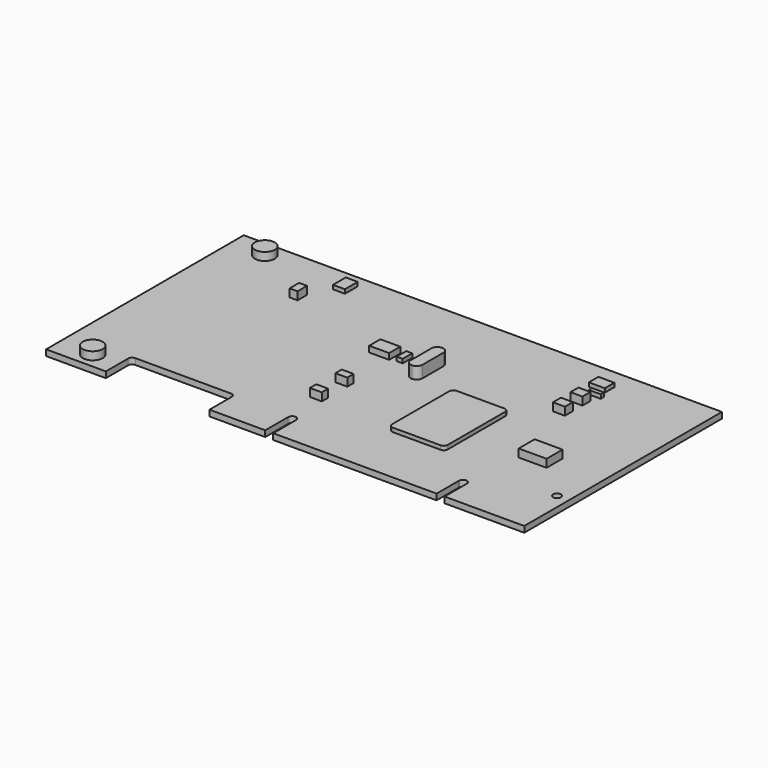
from build123d import *

# Parameters (mm, degrees)
F0_W      = 120
F0_H      = 62
F1_DEPTH  = 1.5
F3_DEPTH  = 1.501
F5_DEPTH  = 1.501
F7_DEPTH  = 1.501
F8_R      = 1
F9_DEPTH  = 1.501
F10_W     = 7
F10_H     = 5
F11_DEPTH = 2
F13_DEPTH = 1
F14_W     = 3
F14_H     = 2.5
F15_DEPTH = 2
F16_W     = 3
F16_H     = 2.5
F17_DEPTH = 2
F18_W     = 3
F18_H     = 1
F19_DEPTH = 1
F20_W     = 4
F20_H     = 3
F21_DEPTH = 1
F23_DEPTH = 3
F24_W     = 1.5
F24_H     = 3
F25_DEPTH = 1
F26_W     = 5
F26_H     = 3.5
F27_DEPTH = 1.5
F28_W     = 3
F28_H     = 2
F29_DEPTH = 2
F30_W     = 3
F30_H     = 2
F31_DEPTH = 2
F32_R     = 2.5
F33_DEPTH = 2
F34_R     = 2.5
F35_DEPTH = 2
F36_W     = 3
F36_H     = 4
F37_DEPTH = 1
F38_W     = 2
F38_H     = 3
F39_DEPTH = 2


with BuildPart() as f1:
    # F0 (on Top) → F1 (new body)
    with BuildSketch(Plane.XY):
        with Locations((-1.138048, 13.651166)):
            Rectangle(F0_W, F0_H)
    extrude(amount=F1_DEPTH)

    # F2 (on face) → F3 (cut, through all)
    with BuildSketch(Plane.XY.offset(1.5)):
        with BuildLine():
            Line((-46.138048, -10.348834), (-46.138048, -17.348834))
            Line((-46.138048, -17.348834), (-20.138048, -17.348834))
            Line((-20.138048, -17.348834), (-20.138048, -10.348834))
            ThreePointArc((-20.138048, -10.348834), (-20.430941, -9.641727), (-21.138048, -9.348834))
            Line((-21.138048, -9.348834), (-45.138048, -9.348834))
            ThreePointArc((-45.138048, -9.348834), (-45.845155, -9.641727), (-46.138048, -10.348834))
        make_face()
    extrude(amount=-F3_DEPTH, mode=Mode.SUBTRACT)

    # F4 (on face) → F5 (cut, through all)
    with BuildSketch(Plane.XY.offset(1.5)):
        with BuildLine():
            Line((-6.138048, -10.157242), (-6.138048, -17.348834))
            Line((-6.138048, -17.348834), (-4.138048, -17.348834))
            Line((-4.138048, -17.348834), (-4.138048, -10.157242))
            ThreePointArc((-4.138048, -10.157242), (-5.138048, -9.157242), (-6.138048, -10.157242))
        make_face()
    extrude(amount=-F5_DEPTH, mode=Mode.SUBTRACT)

    # F6 (on face) → F7 (cut, through all)
    with BuildSketch(Plane.XY.offset(1.5)):
        with BuildLine():
            ThreePointArc((38.861952, -10.467094), (38.868969, -10.348834), (38.861952, -10.230573))
            Line((38.861952, -10.230573), (38.861952, -10.467094))
        make_face()
        with BuildLine():
            Line((36.875528, -10.463178), (36.875987, -10.230573))
            ThreePointArc((36.875987, -10.230573), (36.868971, -10.346862), (36.875528, -10.463178))
        make_face()
        with BuildLine():
            Line((38.861952, -10.467094), (38.861952, -10.230573))
            ThreePointArc((38.861952, -10.230573), (37.868969, -9.348834), (36.875987, -10.230573))
            Line((36.875987, -10.230573), (36.875528, -10.463178))
            Line((36.875528, -10.463178), (36.861952, -17.348834))
            Line((36.861952, -17.348834), (38.861952, -17.348834))
            Line((38.861952, -17.348834), (38.861952, -10.467094))
        make_face()
    extrude(amount=-F7_DEPTH, mode=Mode.SUBTRACT)

    # F8 (on face) → F9 (cut, through all)
    with BuildSketch(Plane.XY.offset(1.5)):
        with Locations((55.861952, -3.348834)):
            Circle(F8_R)
    extrude(amount=-F9_DEPTH, mode=Mode.SUBTRACT)

    # F10 (on face) → F11 (join)
    with BuildSketch(Plane.XY.offset(1.5)):
        with Locations((43.361952, 7.151166)):
            Rectangle(F10_W, F10_H)
    extrude(amount=F11_DEPTH)

    # F12 (on face) → F13 (join)
    with BuildSketch(Plane.XY.offset(1.5)):
        with BuildLine():
            Line((25.861952, 17.651166), (13.861952, 17.651166))
            ThreePointArc((13.861952, 17.651166), (13.154845, 17.358273), (12.861952, 16.651166))
            Line((12.861952, 16.651166), (12.861952, -1.348834))
            ThreePointArc((12.861952, -1.348834), (13.154845, -2.05594), (13.861952, -2.348834))
            Line((13.861952, -2.348834), (25.861952, -2.348834))
            ThreePointArc((25.861952, -2.348834), (26.569059, -2.05594), (26.861952, -1.348834))
            Line((26.861952, -1.348834), (26.861952, 16.651166))
            ThreePointArc((26.861952, 16.651166), (26.569059, 17.358273), (25.861952, 17.651166))
        make_face()
    extrude(amount=F13_DEPTH)

    # F14 (on face) → F15 (join)
    with BuildSketch(Plane.XY.offset(1.5)):
        with Locations((34.361952, 25.401166)):
            Rectangle(F14_W, F14_H)
    extrude(amount=F15_DEPTH)

    # F16 (on face) → F17 (join)
    with BuildSketch(Plane.XY.offset(1.5)):
        with Locations((34.361952, 30.901166)):
            Rectangle(F16_W, F16_H)
    extrude(amount=F17_DEPTH)

    # F18 (on face) → F19 (join)
    with BuildSketch(Plane.XY.offset(1.5)):
        with Locations((35.361952, 34.651166)):
            Rectangle(F18_W, F18_H)
    extrude(amount=F19_DEPTH)

    # F20 (on face) → F21 (join)
    with BuildSketch(Plane.XY.offset(1.5)):
        with Locations((33.861952, 38.151166)):
            Rectangle(F20_W, F20_H)
    extrude(amount=F21_DEPTH)

    # F22 (on face) → F23 (join)
    with BuildSketch(Plane.XY.offset(1.5)):
        with BuildLine():
            ThreePointArc((2.654845, 27.151166), (1.594185, 26.711826), (1.154845, 25.651166))
            Line((1.154845, 25.651166), (1.154845, 19.151166))
            ThreePointArc((1.154845, 19.151166), (1.594185, 18.090506), (2.654845, 17.651166))
            ThreePointArc((2.654845, 17.651166), (3.715505, 18.090506), (4.154845, 19.151166))
            Line((4.154845, 19.151166), (4.154845, 25.651166))
            ThreePointArc((4.154845, 25.651166), (3.715505, 26.711826), (2.654845, 27.151166))
        make_face()
    extrude(amount=F23_DEPTH)

    # F24 (on face) → F25 (join)
    with BuildSketch(Plane.XY.offset(1.5)):
        with Locations((-3.595155, 23.151166)):
            Rectangle(F24_W, F24_H)
    extrude(amount=F25_DEPTH)

    # F26 (on face) → F27 (join)
    with BuildSketch(Plane.XY.offset(1.5)):
        with Locations((-8.345155, 22.901166)):
            Rectangle(F26_W, F26_H)
    extrude(amount=F27_DEPTH)

    # F28 (on face) → F29 (join)
    with BuildSketch(Plane.XY.offset(1.5)):
        with Locations((-6.638048, 8.151166)):
            Rectangle(F28_W, F28_H)
    extrude(amount=F29_DEPTH)

    # F30 (on face) → F31 (join)
    with BuildSketch(Plane.XY.offset(1.5)):
        with Locations((-6.638048, 0.151166)):
            Rectangle(F30_W, F30_H)
    extrude(amount=F31_DEPTH)

    # F32 (on face) → F33 (join)
    with BuildSketch(Plane.XY.offset(1.5)):
        with Locations((-52.638048, 40.651166)):
            Circle(F32_R)
    extrude(amount=F33_DEPTH)

    # F34 (on face) → F35 (join)
    with BuildSketch(Plane.XY.offset(1.5)):
        with Locations((-52.638048, -13.348834)):
            Circle(F34_R)
    extrude(amount=F35_DEPTH)

    # F36 (on face) → F37 (join)
    with BuildSketch(Plane.XY.offset(1.5)):
        with Locations((-31.638048, 39.651166)):
            Rectangle(F36_W, F36_H)
    extrude(amount=F37_DEPTH)

    # F38 (on face) → F39 (join)
    with BuildSketch(Plane.XY.offset(1.5)):
        with Locations((-36.638048, 31.151166)):
            Rectangle(F38_W, F38_H)
    extrude(amount=F39_DEPTH)


solid = f1.part
